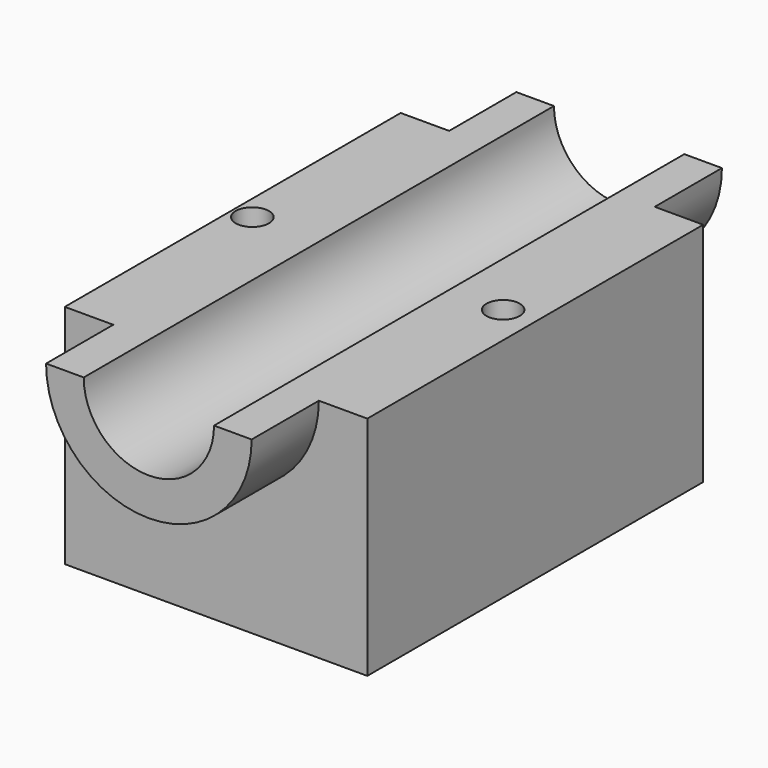
from build123d import *

# Parameters (mm, degrees)
F0_W     = 91.506348
F0_H     = 68.513646
F1_DEPTH = 63.5
F3_DEPTH = 25.4
F5_DEPTH = 152.401
F7_DEPTH = 25.4
F8_R     = 5.041929
F9_DEPTH = 68.514647


with BuildPart() as f1:
    # F0 (on Front) → F1 (new body, symmetric)
    with BuildSketch(Plane.XZ):
        Rectangle(F0_W, F0_H)
    extrude(amount=F1_DEPTH, both=True)

    # F2 (on face) → F3 (join)
    with BuildSketch(Plane.XZ.offset(63.5)):
        with BuildLine():
            Line((-19.708274, 34.256823), (-31.091106, 34.256823))
            ThreePointArc((-31.091106, 34.256823), (0, 3.165717), (31.091106, 34.256823))
            Line((31.091106, 34.256823), (19.708274, 34.256823))
            ThreePointArc((19.708274, 34.256823), (0, 14.548549), (-19.708274, 34.256823))
        make_face()
    extrude(amount=F3_DEPTH)

    # F4 (on face) → F5 (cut, through all)
    with BuildSketch(Plane.XZ.offset(88.9)):
        with BuildLine():
            Line((19.708274, 34.256823), (-19.708274, 34.256823))
            ThreePointArc((-19.708274, 34.256823), (0, 14.548549), (19.708274, 34.256823))
        make_face()
    extrude(amount=-F5_DEPTH, mode=Mode.SUBTRACT)

    # F6 (on face) → F7 (join)
    with BuildSketch(Plane(origin=(0, 63.5, 0), x_dir=(-1, 0, 0), z_dir=(0, 1, 0))):
        with BuildLine():
            ThreePointArc((-31.091106, 34.256823), (0, 3.165717), (31.091106, 34.256823))
            Line((31.091106, 34.256823), (19.708274, 34.256823))
            ThreePointArc((19.708274, 34.256823), (0, 14.548549), (-19.708274, 34.256823))
            Line((-19.708274, 34.256823), (-31.091106, 34.256823))
        make_face()
    extrude(amount=F7_DEPTH)

    # F8 (on face) → F9 (cut, through all)
    with BuildSketch(Plane.XY.offset(34.256823)):
        with Locations((36.037404, 0)):
            Circle(F8_R)
        with Locations((-39.830811, 0)):
            Circle(F8_R)
    extrude(amount=-F9_DEPTH, mode=Mode.SUBTRACT)


solid = f1.part
